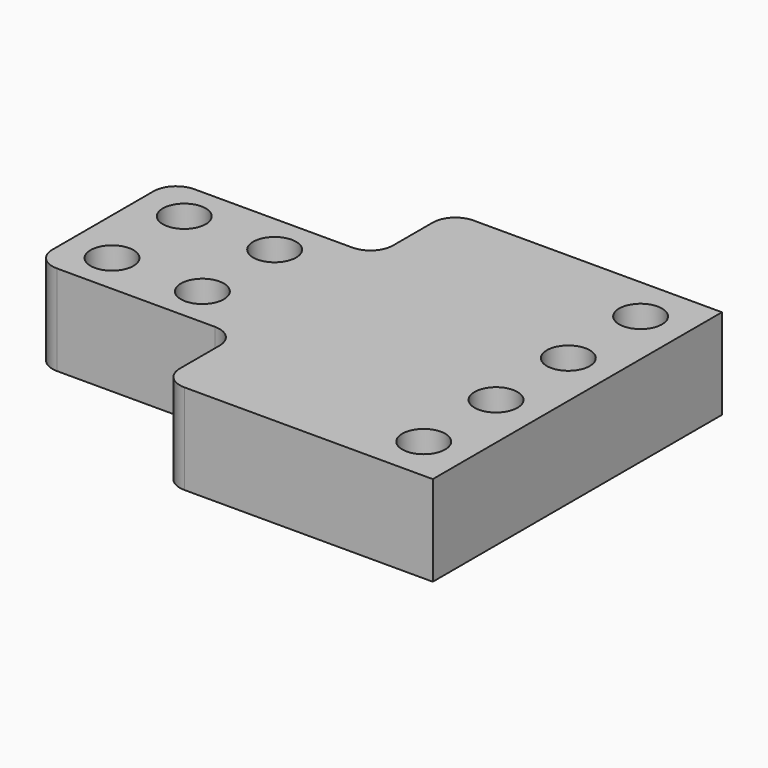
from build123d import *

# Parameters (mm, degrees)
SKETCH_W              = 80
SKETCH_H              = 20
PAD_DEPTH             = 52.5
SKETCH001_R           = 2.75
POCKET_DEPTH          = 20.001
SKETCH002_R           = 4.75
POCKET001_DEPTH       = 5.54
SKETCH003_W           = 21
SKETCH003_H           = 45
POCKET002_DEPTH       = 20.001
FILLET_R              = 5
CLONE_PLACEMENT_ANGLE = 90


with BuildPart() as part:
    # Sketch → Pad (new body, symmetric)
    with BuildSketch(Plane.XZ):
        with Locations((0, -10)):
            Rectangle(SKETCH_W, SKETCH_H)
    extrude(amount=PAD_DEPTH, both=True)

    # Sketch001 (on Face4 of Pad) → Pocket (cut, through all)
    with BuildSketch(Plane(origin=(0, 0, 0), x_dir=(-1, 0, 0), z_dir=(0, 0, 1))):
        with Locations((-30, -42.5)):
            Circle(SKETCH001_R)
        with Locations((30, -42.5)):
            Circle(SKETCH001_R)
        with Locations((-10, 42.5)):
            Circle(SKETCH001_R)
        with Locations((10, 42.5)):
            Circle(SKETCH001_R)
        with Locations((-10, 22.5)):
            Circle(SKETCH001_R)
        with Locations((10, 22.5)):
            Circle(SKETCH001_R)
        with Locations((-10, -42.5)):
            Circle(SKETCH001_R)
        with Locations((10, -42.5)):
            Circle(SKETCH001_R)
    extrude(amount=-POCKET_DEPTH, mode=Mode.SUBTRACT)

    # Sketch002 (on Face2 of Pocket) → Pocket001 (cut)
    with BuildSketch(Plane(origin=(0, 0, 0), x_dir=(-1, 0, 0), z_dir=(0, 0, 1))):
        with Locations((-10, 42.5)):
            Circle(SKETCH002_R)
        with Locations((10, 42.5)):
            Circle(SKETCH002_R)
        with Locations((-10, 22.5)):
            Circle(SKETCH002_R)
        with Locations((10, 22.5)):
            Circle(SKETCH002_R)
        with Locations((10, -42.5)):
            Circle(SKETCH002_R)
        with Locations((30, -42.5)):
            Circle(SKETCH002_R)
        with Locations((-30, -42.5)):
            Circle(SKETCH002_R)
        with Locations((-10, -42.5)):
            Circle(SKETCH002_R)
    extrude(amount=-POCKET001_DEPTH, mode=Mode.SUBTRACT)

    # Sketch003 (on Face2 of Pocket001) → Pocket002 (cut, through all)
    with BuildSketch(Plane(origin=(0, 0, 0), x_dir=(-1, 0, 0), z_dir=(0, 0, 1))):
        with Locations((-29.5, 30)):
            Rectangle(SKETCH003_W, SKETCH003_H)
        with Locations((29.5, 30)):
            Rectangle(SKETCH003_W, SKETCH003_H)
    extrude(amount=-POCKET002_DEPTH, mode=Mode.SUBTRACT)

    # Fillet
    fillet_edges = [part.edges().sort_by_distance(p)[0] for p in [
        (40, -7.5, -10),
        (19, -7.5, -10),
        (19, -52.5, -10),
        (-19, -52.5, -10),
        (-19, -7.5, -10),
        (-40, -7.5, -10),
    ]]
    fillet(fillet_edges, radius=FILLET_R)


with BuildPart() as part_1:
    # Clone placement: moved
    add(part.part.moved(Location((-52.5, 40, 0))).rotate(Axis((-52.5, 40, 0), (0, 0, -1)), CLONE_PLACEMENT_ANGLE))


solid = part_1.part
